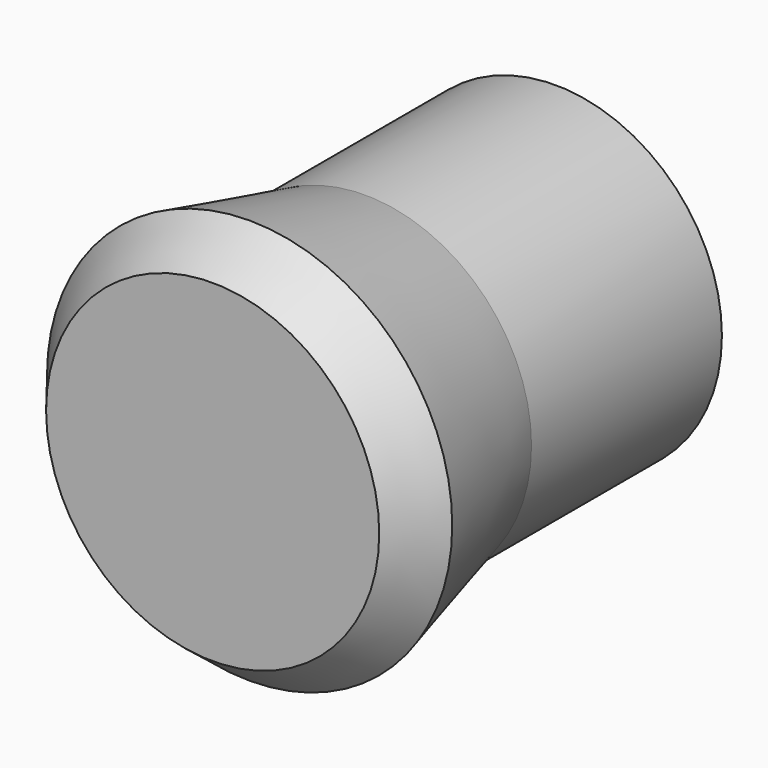
from build123d import *

# Parameters (mm, degrees)
SKETCH001_R  = 7
SKETCH_R     = 9
PAD_DEPTH    = 10
SKETCH002_R  = 5
POCKET_DEPTH = 17
CHAMFER_SIZE = 2


with BuildPart() as part:
    # Sketch001 → AdditiveLoft section 0
    with BuildSketch(Plane.XZ.offset(-8)):
        Circle(SKETCH001_R)
    # Sketch → AdditiveLoft section 1
    with BuildSketch(Plane.XZ):
        Circle(SKETCH_R)
    loft()

    # Sketch001 → Pad (new body)
    with BuildSketch(Plane.XZ.offset(-8)):
        Circle(SKETCH001_R)
    extrude(amount=-PAD_DEPTH)

    # Sketch002 (on Face4 of Pad) → Pocket (cut)
    with BuildSketch(Plane(origin=(0, 18, 0), x_dir=(1, 0, 0), z_dir=(0, 1, 0))):
        Circle(SKETCH002_R)
    extrude(amount=-POCKET_DEPTH, mode=Mode.SUBTRACT)

    # Chamfer
    chamfer_edges = [part.edges().sort_by_distance(p)[0] for p in [
        (-9, 0, 0),
    ]]
    chamfer(chamfer_edges, length=CHAMFER_SIZE)


solid = part.part
